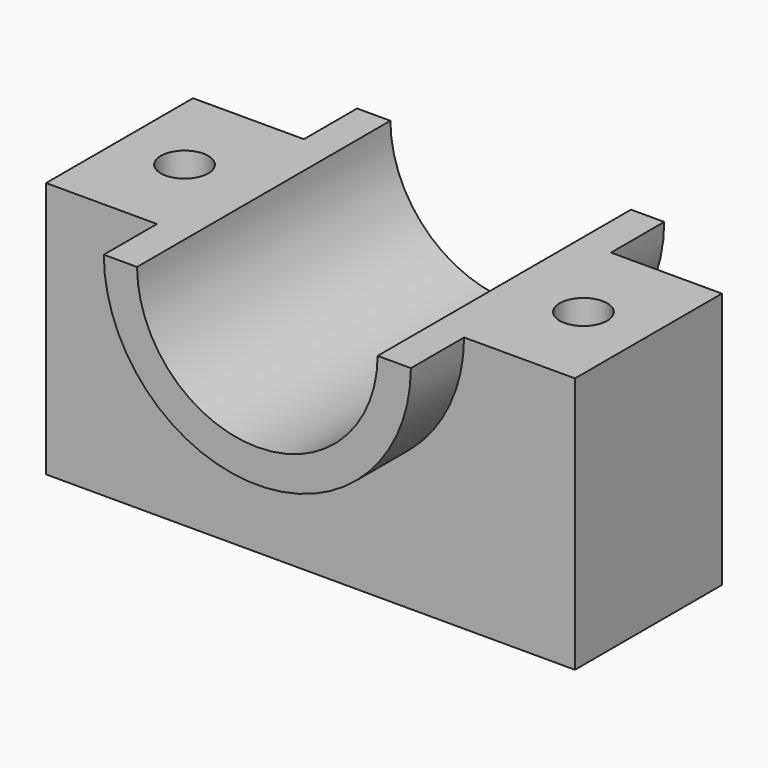
from build123d import *

# Parameters (mm, degrees)
F1_DEPTH = 50.8
F2_DEPTH = 29.464
F5_D     = 15.24
F6_D     = 15.24


with BuildPart() as f1:
    # F0 (on Front) → F1 (new body, symmetric)
    with BuildSketch(Plane.XZ):
        with BuildLine():
            ThreePointArc((-49.268454, 41.154392), (0, -7.871612), (49.268454, 41.154392))
            Line((49.268454, 41.154392), (38.600289, 41.154392))
            ThreePointArc((38.600289, 41.154392), (0, 2.796388), (-38.600289, 41.154392))
            Line((-38.600289, 41.154392), (-49.268454, 41.154392))
        make_face()
    extrude(amount=F1_DEPTH, both=True)

    # F0 (on Front) → F2 (join, symmetric)
    with BuildSketch(Plane.XZ):
        with BuildLine():
            Line((-84.846668, -41.154392), (84.846668, -41.154392))
            Line((84.846668, -41.154392), (84.846668, 41.154392))
            Line((84.846668, 41.154392), (49.268454, 41.154392))
            ThreePointArc((49.268454, 41.154392), (0, -7.871612), (-49.268454, 41.154392))
            Line((-49.268454, 41.154392), (-84.846668, 41.154392))
            Line((-84.846668, 41.154392), (-84.846668, -41.154392))
        make_face()
        with BuildLine():
            ThreePointArc((-49.268454, 41.154392), (0, -7.871612), (49.268454, 41.154392))
            Line((49.268454, 41.154392), (38.600289, 41.154392))
            ThreePointArc((38.600289, 41.154392), (0, 2.796388), (-38.600289, 41.154392))
            Line((-38.600289, 41.154392), (-49.268454, 41.154392))
        make_face()
    extrude(amount=F2_DEPTH, both=True)

    # F5 (through all)
    with Locations(Plane.XY.offset(41.154392)):
        with Locations((-64.000289, 0)):
            Hole(F5_D / 2)

    # F6 (through all)
    with Locations(Plane.XY.offset(41.154392)):
        with Locations((64.000289, 0)):
            Hole(F6_D / 2)


solid = f1.part
